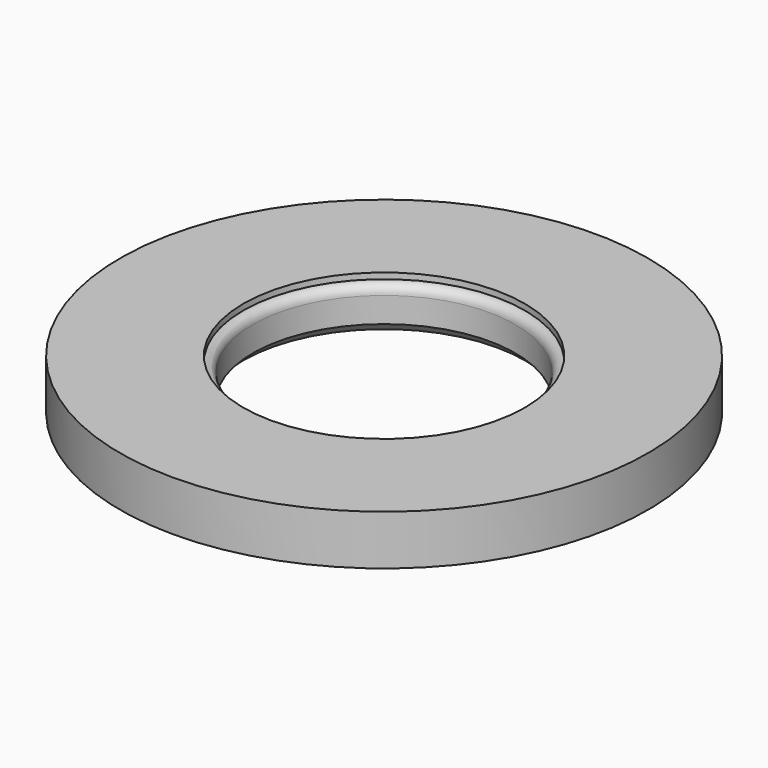
from build123d import *


with BuildPart() as f1:
    # F0 (on Right) → F1 (revolve)
    with BuildSketch(Plane.YZ):
        Polygon((-12, 0), (-6.4, 0), (-6.4, 2), (-6.4, 2.2704), (-12, 2.2704), align=None)
        with BuildLine():
            Line((-6.4, 2), (-6.4, 0))
            Line((-6.4, 0), (-5.975, 0.425))
            Line((-5.975, 0.425), (-5.975, 1.575))
            ThreePointArc((-5.975, 1.575), (-6.09948, 1.87552), (-6.4, 2))
        make_face()
    revolve(axis=Axis((0, 0, 18.057704), (0, 0, 1)))


solid = f1.part
